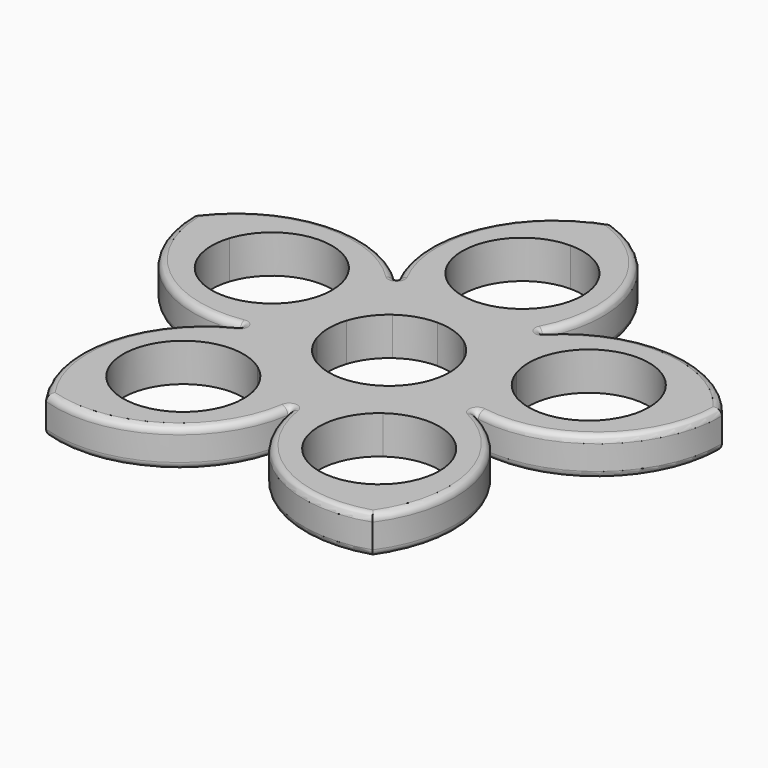
from build123d import *

# Parameters (mm, degrees)
F1_DEPTH = 6.985
F2_R     = 0.254
F3_R     = 1.27
F4_R     = 1.27


with BuildPart() as f1:
    # F0 (on Top) → F1 (new body)
    with BuildSketch(Plane.XY):
        with BuildLine():
            ThreePointArc((10.4719881953, 3.4025552234), (10.8753375495, 1.7224842511), (11.0109, 0))
            ThreePointArc((11.0109, 0), (10.8753375495, -1.7224842511), (10.4719881953, -3.4025552234))
            Line((10.4719881953, -3.4025552234), (18.5162144214, -6.0162827652))
            ThreePointArc((18.5162144214, -6.0162827652), (19.2294030719, -3.0456382433), (19.4691, 0))
            ThreePointArc((19.4691, 0), (19.2294030705, 3.0456382523), (18.5162144158, 6.0162827824))
            Line((18.5162144214, 6.0162827652), (10.4719881953, 3.4025552234))
        make_face()
        with BuildLine():
            ThreePointArc((6.4720446345, 8.9080052234), (8.9080052234, 6.4720446345), (10.4719881953, 3.4025552234))
            Line((10.4719881953, 3.4025552234), (18.5162144214, 6.0162827652))
            ThreePointArc((18.5162144158, 6.0162827824), (15.7508327599, 11.4436498627), (11.4436498554, 15.7508327652))
            Line((11.4436498554, 15.7508327652), (6.4720446345, 8.9080052234))
        make_face()
        with BuildLine():
            Line((18.5162144214, -6.0162827652), (10.4719881953, -3.4025552234))
            ThreePointArc((10.4719881953, -3.4025552234), (8.9080052234, -6.4720446345), (6.4720446345, -8.9080052234))
            Line((6.4720446345, -8.9080052234), (11.4436498554, -15.7508327652))
            ThreePointArc((11.4436499113, -15.7508327246), (15.7508327855, -11.4436498275), (18.5162144214, -6.0162827652))
        make_face()
        with BuildLine():
            ThreePointArc((0, 11.0109), (3.4025552234, 10.4719881953), (6.4720446345, 8.9080052234))
            Line((6.4720446345, 8.9080052234), (11.4436498554, 15.7508327652))
            ThreePointArc((11.4436498554, 15.7508327652), (6.0162827697, 18.5162144199), (9.5e-09, 19.4691))
            Line((0, 19.4691), (0, 11.0109))
        make_face()
        with BuildLine():
            ThreePointArc((11.4436498554, 15.7508327652), (15.7508327599, 11.4436498627), (18.5162144158, 6.0162827824))
            ThreePointArc((18.5162144158, 6.0162827824), (25.5856474019, 19.8908261866), (39.460190812, 12.8213932119))
            Line((39.460190812, 12.8213932119), (48.3136710278, 15.6980633142))
            ThreePointArc((48.3136710278, 15.6980633142), (29.8921279226, 25.1341784614), (11.4436498554, 15.7508327652))
        make_face()
        with BuildLine():
            ThreePointArc((39.9991026167, 9.4188379885), (30.7106868588, -1.4564995623), (18.5162144158, 6.0162827824))
            ThreePointArc((18.5162144158, 6.0162827824), (19.2294030705, 3.0456382523), (19.4691, 0))
            ThreePointArc((19.4691, 0), (19.2294030719, -3.0456382433), (18.5162144214, -6.0162827652))
            ThreePointArc((18.5162144214, -6.0162827652), (38.9567389155, -2.7638255624), (48.3136710278, 15.6980633142))
            Line((48.3136710278, 15.6980633142), (39.460190812, 12.8213932119))
            ThreePointArc((39.460190812, 12.8213932119), (39.8635401661, 11.1413222397), (39.9991026167, 9.4188379885))
        make_face()
        with BuildLine():
            Line((11.4436498554, -15.7508327652), (6.4720446345, -8.9080052234))
            ThreePointArc((6.4720446345, -8.9080052234), (3.4025552234, -10.4719881953), (0, -11.0109))
            Line((0, -11.0109), (0, -19.4691))
            ThreePointArc((0, -19.4691), (6.016282798, -18.5162144107), (11.4436499113, -15.7508327246))
        make_face()
        with BuildLine():
            ThreePointArc((29.8594908165, -41.0980633142), (33.1411997336, -20.6622147624), (18.5162144214, -6.0162827652))
            ThreePointArc((18.5162144214, -6.0162827652), (15.7508327855, -11.4436498275), (11.4436499113, -15.7508327246))
            ThreePointArc((11.4436499113, -15.7508327246), (22.9145385142, -14.848054267), (28.9265944899, -24.6588379885))
            ThreePointArc((28.9265944899, -24.6588379885), (27.7264782271, -29.6576819821), (24.3877391243, -33.5668432119))
            Line((24.3877391243, -33.5668432119), (29.8594908165, -41.0980633142))
        make_face()
        with BuildLine():
            ThreePointArc((-6.4720446345, 8.9080052234), (-3.4025552234, 10.4719881953), (0, 11.0109))
            Line((0, 11.0109), (0, 19.4691))
            ThreePointArc((9.5e-09, 19.4691), (-6.0162827607, 18.5162144229), (-11.4436498554, 15.7508327652))
            Line((-11.4436498554, 15.7508327652), (-6.4720446345, 8.9080052234))
        make_face()
        with BuildLine():
            ThreePointArc((9.5e-09, 19.4691), (6.0162827697, 18.5162144199), (11.4436498554, 15.7508327652))
            ThreePointArc((11.4436498554, 15.7508327652), (14.6668486814, 36.1959913309), (0, 50.8))
            Line((0, 50.8), (0, 41.4909))
            ThreePointArc((0, 41.4909), (7.785882057, 38.265882057), (11.0109, 30.48))
            ThreePointArc((11.0109, 30.48), (7.7858820603, 22.6941179464), (9.5e-09, 19.4691))
        make_face()
        with BuildLine():
            Line((-18.5162144214, 6.0162827652), (-10.4719881953, 3.4025552234))
            ThreePointArc((-10.4719881953, 3.4025552234), (-8.9080052234, 6.4720446345), (-6.4720446345, 8.9080052234))
            Line((-6.4720446345, 8.9080052234), (-11.4436498554, 15.7508327652))
            ThreePointArc((-11.4436498554, 15.7508327652), (-15.7508327711, 11.4436498472), (-18.5162144277, 6.0162827459))
        make_face()
        with BuildLine():
            ThreePointArc((-10.4719881953, -3.4025552234), (-11.0109, 0), (-10.4719881953, 3.4025552234))
            Line((-10.4719881953, 3.4025552234), (-18.5162144214, 6.0162827652))
            ThreePointArc((-18.5162144277, 6.0162827459), (-19.4691, -1.01e-08), (-18.5162144214, -6.0162827652))
            Line((-18.5162144214, -6.0162827652), (-10.4719881953, -3.4025552234))
        make_face()
        with BuildLine():
            Line((-11.4436498554, -15.7508327652), (-6.4720446345, -8.9080052234))
            ThreePointArc((-6.4720446345, -8.9080052234), (-8.9080052234, -6.4720446345), (-10.4719881953, -3.4025552234))
            Line((-10.4719881953, -3.4025552234), (-18.5162144214, -6.0162827652))
            ThreePointArc((-18.5162144214, -6.0162827652), (-15.7508327731, -11.4436498445), (-11.4436498772, -15.7508327494))
        make_face()
        with BuildLine():
            ThreePointArc((0, -11.0109), (-3.4025552234, -10.4719881953), (-6.4720446345, -8.9080052234))
            Line((-6.4720446345, -8.9080052234), (-11.4436498554, -15.7508327652))
            ThreePointArc((-11.4436498772, -15.7508327494), (-6.016282778, -18.5162144172), (0, -19.4691))
            Line((0, -19.4691), (0, -11.0109))
        make_face()
        with BuildLine():
            ThreePointArc((24.3877391243, -33.5668432119), (9.0076892462, -31.1308825951), (11.4436499113, -15.7508327246))
            ThreePointArc((11.4436499113, -15.7508327246), (6.016282798, -18.5162144107), (0, -19.4691))
            ThreePointArc((0, -19.4691), (9.4097400593, -37.9041294675), (29.8594908165, -41.0980633142))
            Line((29.8594908165, -41.0980633142), (24.3877391243, -33.5668432119))
        make_face()
        with BuildLine():
            ThreePointArc((-11.4436498554, 15.7508327652), (-6.0162827607, 18.5162144229), (9.5e-09, 19.4691))
            ThreePointArc((9.5e-09, 19.4691), (-11.0109, 30.4799999952), (0, 41.4909))
            Line((0, 41.4909), (0, 50.8))
            ThreePointArc((0, 50.8), (-14.6668486814, 36.1959913309), (-11.4436498554, 15.7508327652))
        make_face()
        with BuildLine():
            ThreePointArc((-18.5162144214, -6.0162827652), (-19.4691, -1.01e-08), (-18.5162144277, 6.0162827459))
            ThreePointArc((-18.5162144277, 6.0162827459), (-32.3907578497, -1.0531502036), (-39.460190812, 12.8213932119))
            Line((-39.460190812, 12.8213932119), (-48.3136710278, 15.6980633142))
            ThreePointArc((-48.3136710278, 15.6980633142), (-38.9567389155, -2.7638255624), (-18.5162144214, -6.0162827652))
        make_face()
        with BuildLine():
            ThreePointArc((-17.9773026167, 9.4188379885), (-18.1128650688, 7.6963537274), (-18.5162144277, 6.0162827459))
            ThreePointArc((-18.5162144277, 6.0162827459), (-15.7508327711, 11.4436498472), (-11.4436498554, 15.7508327652))
            ThreePointArc((-11.4436498554, 15.7508327652), (-29.8921279226, 25.1341784614), (-48.3136710278, 15.6980633142))
            Line((-48.3136710278, 15.6980633142), (-39.460190812, 12.8213932119))
            ThreePointArc((-39.460190812, 12.8213932119), (-27.2657183656, 20.294175538), (-17.9773026167, 9.4188379885))
        make_face()
        with BuildLine():
            ThreePointArc((0, -19.4691), (-6.016282778, -18.5162144172), (-11.4436498772, -15.7508327494))
            ThreePointArc((-11.4436498772, -15.7508327494), (-8.1049107588, -19.659993983), (-6.9047944899, -24.6588379885))
            ThreePointArc((-6.9047944899, -24.6588379885), (-12.9168504963, -34.4696217257), (-24.3877391243, -33.5668432119))
            Line((-24.3877391243, -33.5668432119), (-29.8594908165, -41.0980633142))
            ThreePointArc((-29.8594908165, -41.0980633142), (-9.4097400593, -37.9041294675), (0, -19.4691))
        make_face()
        with BuildLine():
            ThreePointArc((-24.3877391243, -33.5668432119), (-26.8236997211, -18.186793365), (-11.4436498772, -15.7508327494))
            ThreePointArc((-11.4436498772, -15.7508327494), (-15.7508327731, -11.4436498445), (-18.5162144214, -6.0162827652))
            ThreePointArc((-18.5162144214, -6.0162827652), (-33.1411997336, -20.6622147624), (-29.8594908165, -41.0980633142))
            Line((-29.8594908165, -41.0980633142), (-24.3877391243, -33.5668432119))
        make_face()
    extrude(amount=F1_DEPTH)

    # F2
    f2_edges = [f1.edges().sort_by_distance(p)[0] for p in [
        (18.516214, -6.016283, 3.4925),
        (11.44365, 15.750833, 3.4925),
        (-11.44365, 15.750833, 3.4925),
        (-18.516214, -6.016283, 3.4925),
        (0, -19.4691, 3.4925),
    ]]
    fillet(f2_edges, radius=F2_R)

    # F3
    f3_edges = [f1.edges().sort_by_distance(p)[0] for p in [
        (-14.08226, 37.783835, 6.985),
        (14.08226, 37.783835, 6.985),
        (31.582905, 25.068872, 6.985),
        (40.28622, -1.717178, 6.985),
        (33.601569, -22.29042, 6.985),
        (10.815993, -38.84511, 6.985),
        (-10.815993, -38.84511, 6.985),
        (-33.601569, -22.29042, 6.985),
        (-40.28622, -1.717178, 6.985),
        (-31.582905, 25.068872, 6.985),
    ]]
    fillet(f3_edges, radius=F3_R)

    # F4
    f4_edges = [f1.edges().sort_by_distance(p)[0] for p in [
        (-40.28622, -1.717178, 0),
        (-31.582905, 25.068872, 0),
        (-14.08226, 37.783835, 0),
        (14.08226, 37.783835, 0),
        (31.582905, 25.068872, 0),
        (40.28622, -1.717178, 0),
        (33.601569, -22.29042, 0),
        (10.815993, -38.84511, 0),
        (-10.815993, -38.84511, 0),
    ]]
    fillet(f4_edges, radius=F4_R)


solid = f1.part
